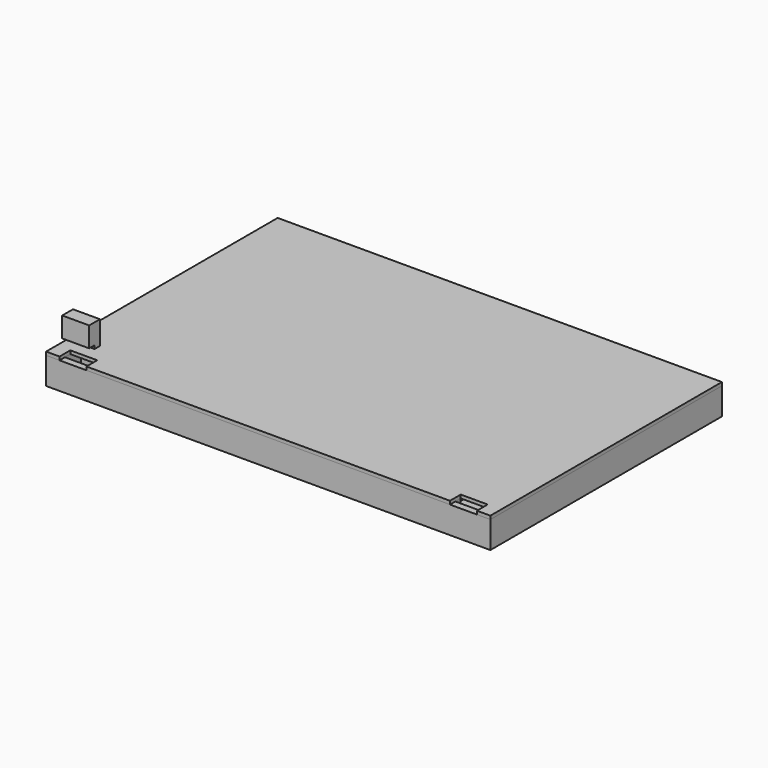
from build123d import *

# Parameters (mm, degrees)
F1_DEPTH = 10
F2_W     = 330
F2_H     = 215
F3_DEPTH = 20
F5_DEPTH = 20
F7_DEPTH = 2.5


with BuildPart() as f1:
    # F0 (on Top) → F1 (new body)
    with BuildSketch(Plane.XY):
        Polygon((330, 200), (0, 200), (0, 0), (30, 0), (30, -15), (300, -15), (300, 0), (330, 0), align=None)
        Polygon((10, 10), (10, 190), (320, 190), (320, 10), (290, 10), (290, -5), (40, -5), (40, 10), align=None, mode=Mode.SUBTRACT)
    extrude(amount=F1_DEPTH)


with BuildPart() as f3:
    # F2 (on Top) → F3 (new body)
    with BuildSketch(Plane.XY):
        with Locations((165, 92.5)):
            Rectangle(F2_W, F2_H)
        Polygon((10, -5), (10, 190), (320, 190), (320, -5), (320, -10), (300, -10), (300, -5), (30, -5), (30, -10), (10, -10), align=None, mode=Mode.SUBTRACT)
    extrude(amount=F3_DEPTH)


with BuildPart() as f5:
    # F4 (on Right) → F5 (new body)
    with BuildSketch(Plane.YZ):
        Polygon((0, 5), (0, 0), (10, 0), (10, 40), (0, 40), (0, 25), (5, 25), (5, 5), align=None)
    extrude(amount=F5_DEPTH)


with BuildPart() as f7:
    # F6 (on face) → F7 (new body)
    with BuildSketch(Plane.XY.offset(20)):
        Polygon((330, 200), (0, 200), (0, -15), (10, -15), (10, -5), (30, -5), (30, -15), (300, -15), (300, -5), (320, -5), (320, -15), (330, -15), align=None)
    extrude(amount=F7_DEPTH)


solid = Compound([f1.part, f3.part, f5.part, f7.part])
